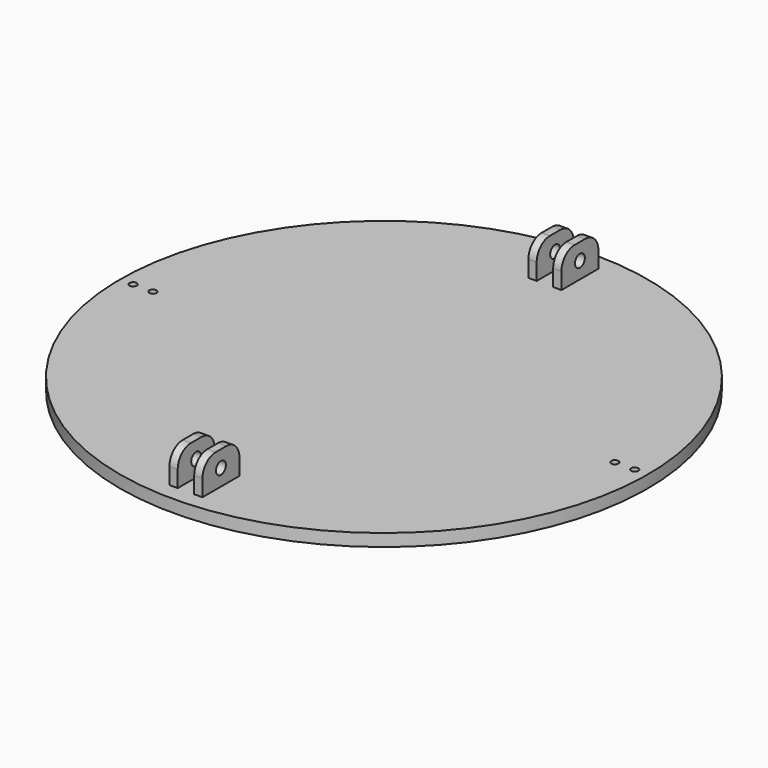
from build123d import *

# Parameters (mm, degrees)
F0_W     = 203.2
F0_H     = 203.2
F1_DEPTH = 4.7625
F2_W     = 17.78
F2_H     = 12.7
F3_DEPTH = 6.35
F4_W     = 6.35
F4_H     = 17.78
F4_W_2   = 3.175
F5_DEPTH = 12.7
F7_D     = 4.7625
F9_DEPTH = 4.7635
F10_R    = 6.35
F12_D    = 2.794


with BuildPart() as f1:
    # F0 (on Top) → F1 (new body)
    with BuildSketch(Plane.XY):
        Rectangle(F0_W, F0_H)
    extrude(amount=F1_DEPTH)

    # F2 (on Right) → F3 (join, symmetric)
    with BuildSketch(Plane.YZ):
        with Locations((-86.36, 11.1125)):
            Rectangle(F2_W, F2_H)
        with Locations((86.36, 11.1125)):
            Rectangle(F2_W, F2_H)
    extrude(amount=F3_DEPTH, both=True)

    # F4 (on face) → F5 (cut, through all)
    with BuildSketch(Plane.XY.offset(17.4625)):
        with Locations((0, -86.36)):
            Rectangle(F4_W, F4_H)
        with Locations((-1.5875, 86.36)):
            Rectangle(F4_W_2, F4_H)
        with Locations((1.5875, 86.36)):
            Rectangle(F4_W_2, F4_H)
    extrude(amount=-F5_DEPTH, mode=Mode.SUBTRACT)

    # F7 (through all)
    with Locations(Plane.YZ.offset(6.35)):
        with Locations((-86.36, 11.1125), (86.36, 11.1125)):
            Hole(F7_D / 2)

    # F8 (on face) → F9 (cut, through all)
    with BuildSketch(Plane.XY.offset(4.7625)):
        with BuildLine():
            Line((-101.6, -101.6), (-3.53e-08, -101.6))
            ThreePointArc((-3.53e-08, -101.6), (-71.842048981, -71.8420489561), (-101.6, 0))
            Line((-101.6, 0), (-101.6, -101.6))
        make_face()
        with BuildLine():
            ThreePointArc((-101.6, 0), (-71.8420489199, 71.8420490172), (1.376e-07, 101.6))
            Line((1.376e-07, 101.6), (-101.6, 101.6))
            Line((-101.6, 101.6), (-101.6, 0))
        make_face()
        with BuildLine():
            ThreePointArc((1.376e-07, 101.6), (71.8420490172, 71.8420489199), (101.6, 0))
            Line((101.6, 0), (101.6, 101.6))
            Line((101.6, 101.6), (1.376e-07, 101.6))
        make_face()
        with BuildLine():
            Line((101.6, -101.6), (101.6, 0))
            ThreePointArc((101.6, 0), (71.8420489561, -71.842048981), (-3.53e-08, -101.6))
            Line((-3.53e-08, -101.6), (101.6, -101.6))
        make_face()
    extrude(amount=-F9_DEPTH, mode=Mode.SUBTRACT)

    # F10
    f10_edges = [f1.edges().sort_by_distance(p)[0] for p in [
        (-4.7625, -95.25, 17.4625),
        (-4.7625, -77.47, 17.4625),
        (-4.7625, 77.47, 17.4625),
        (-4.7625, 95.25, 17.4625),
        (4.7625, 95.25, 17.4625),
        (4.7625, 77.47, 17.4625),
        (4.7625, -95.25, 17.4625),
        (4.7625, -77.47, 17.4625),
    ]]
    fillet(f10_edges, radius=F10_R)

    # F12 (through all)
    with Locations(Plane.XY.offset(4.7625)):
        with Locations((-88.9, 0), (88.9, 0), (-96.52, 0), (96.52, 0)):
            Hole(F12_D / 2)


solid = f1.part
